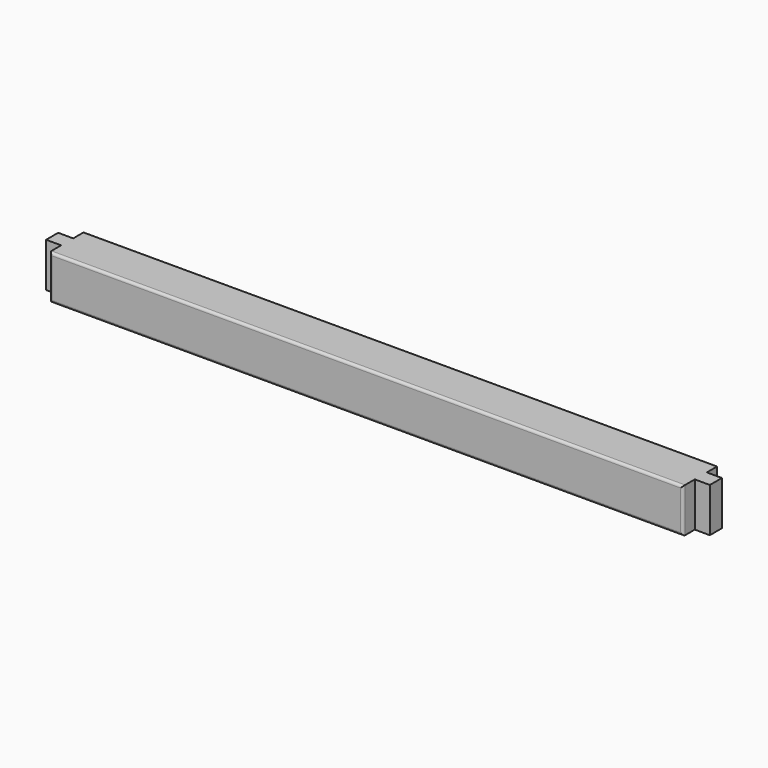
from build123d import *

# Parameters (mm, degrees)
F1_DEPTH = 88
F2_R     = 5


with BuildPart() as f1:
    # F0 (on Top) → F1 (new body)
    with BuildSketch(Plane.XY):
        Polygon((-630, -15), (-630, -44), (630, -44), (630, -15), (660, -15), (660, 15), (630, 15), (630, 44), (-630, 44), (-630, 15), (-660, 15), (-660, -15), align=None)
    extrude(amount=F1_DEPTH)

    # F2
    f2_edges = [f1.edges().sort_by_distance(p)[0] for p in [
        (0, -44, 0),
        (0, -44, 88),
        (0, 44, 88),
        (630, -44, 44),
        (630, 44, 44),
        (0, 44, 0),
        (-630, 44, 44),
        (-630, -44, 44),
    ]]
    fillet(f2_edges, radius=F2_R)


solid = f1.part
